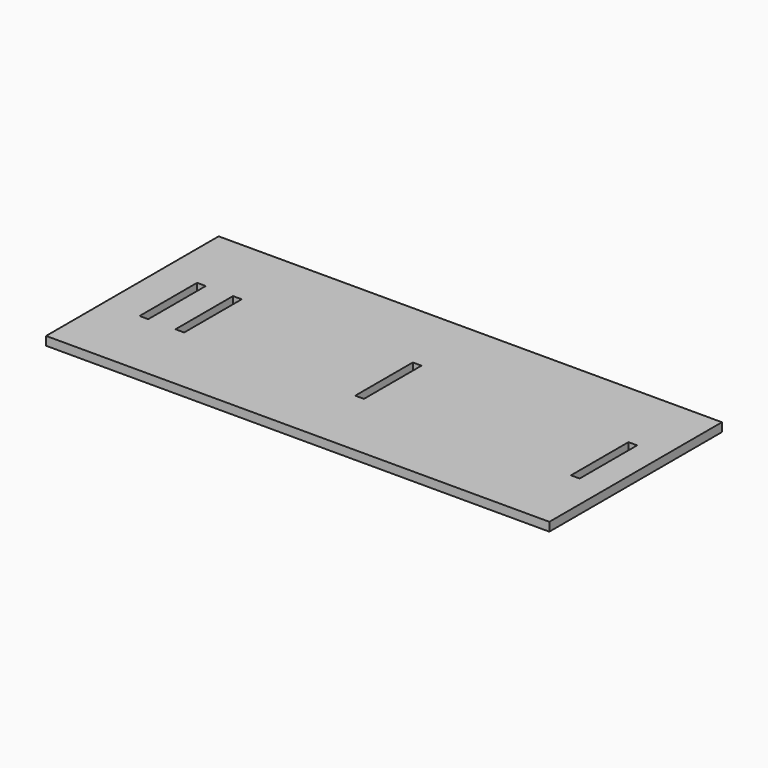
from build123d import *

# Parameters (mm, degrees)
F0_W     = 177.8
F0_H     = 76.2
F0_W_2   = 3.0734
F0_H_2   = 25.4
F1_DEPTH = 3.0734


with BuildPart() as f1:
    # F0 (on Top) → F1 (new body)
    with BuildSketch(Plane.XY):
        with Locations((18.3134, -0.306201)):
            Rectangle(F0_W, F0_H)
        with Locations((19.8501, -0.306201)):
            Rectangle(F0_W_2, F0_H_2, mode=Mode.SUBTRACT)
        with Locations((-56.3499, -0.306201)):
            Rectangle(F0_W_2, F0_H_2, mode=Mode.SUBTRACT)
        with Locations((-43.6499, -0.306201)):
            Rectangle(F0_W_2, F0_H_2, mode=Mode.SUBTRACT)
        with Locations((96.0501, -0.306201)):
            Rectangle(F0_W_2, F0_H_2, mode=Mode.SUBTRACT)
    extrude(amount=F1_DEPTH)


solid = f1.part
